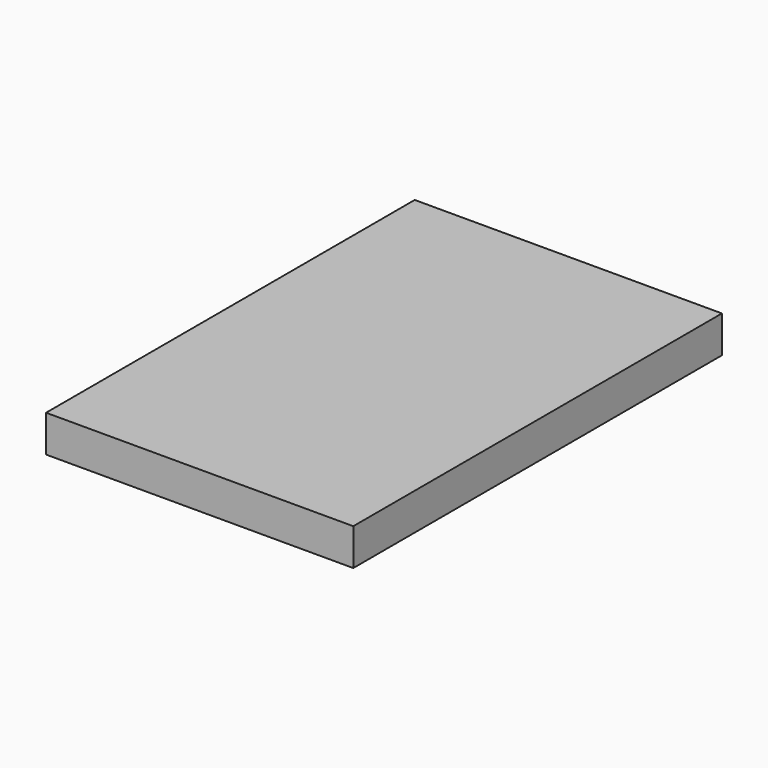
from build123d import *

# Parameters (mm, degrees)
SKETCH_W  = 100
SKETCH_H  = 150
PAD_DEPTH = 12


with BuildPart() as part:
    # Sketch → Pad (new body)
    with BuildSketch(Plane.XY):
        with Locations((41.613848, 15.339381)):
            Rectangle(SKETCH_W, SKETCH_H)
    extrude(amount=PAD_DEPTH)


solid = part.part
